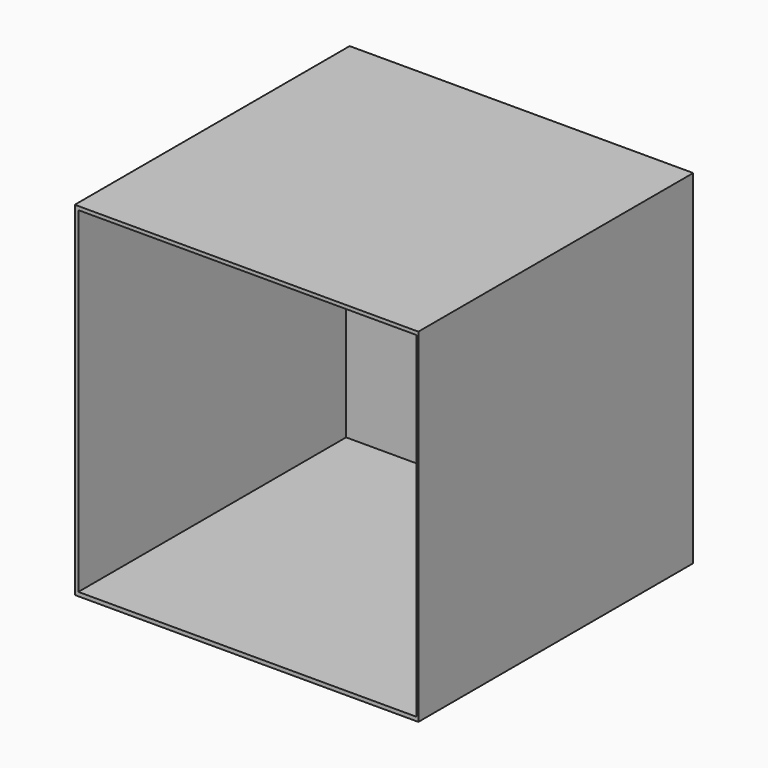
from build123d import *

# Parameters (mm, degrees)
F0_W     = 76.2
F0_H     = 76.2
F1_DEPTH = 76.2
F2_W     = 75.00874
F2_H     = 74.538709
F3_DEPTH = 74.21626
F4_W     = 15.047822
F4_H     = 10.417721
F5_DEPTH = 23.8125
F7_DEPTH = 3.81


with BuildPart() as f1:
    # F0 (on Front) → F1 (new body)
    with BuildSketch(Plane.XZ):
        with Locations((-38.1, 38.1)):
            Rectangle(F0_W, F0_H)
    extrude(amount=F1_DEPTH)

    # F2 (on face) → F3 (cut)
    with BuildSketch(Plane.XZ.offset(76.2)):
        with Locations((-37.90061, 38.135625)):
            Rectangle(F2_W, F2_H)
    extrude(amount=-F3_DEPTH, mode=Mode.SUBTRACT)

    # F4 (on face) → F5 (cut)
    with BuildSketch(Plane.XZ.offset(1.98374)):
        with Locations((-36.997689, 16.123744)):
            Rectangle(F4_W, F4_H)
    extrude(amount=-F5_DEPTH, mode=Mode.SUBTRACT)

    # F6 (on face) → F7 (join)
    with BuildSketch(Plane.XZ.offset(1.98374)):
        with BuildLine():
            Line((-29.473778, 16.500985), (-29.473778, 14.723744))
            ThreePointArc((-29.473778, 14.723744), (-36.543118, 51.269556), (-45.348023, 15.102643))
            Line((-45.348023, 15.102643), (-45.348023, 16.92383))
            ThreePointArc((-45.348023, 16.92383), (-36.53353, 49.650186), (-29.473778, 16.500985))
        make_face()
    extrude(amount=F7_DEPTH)


solid = f1.part
